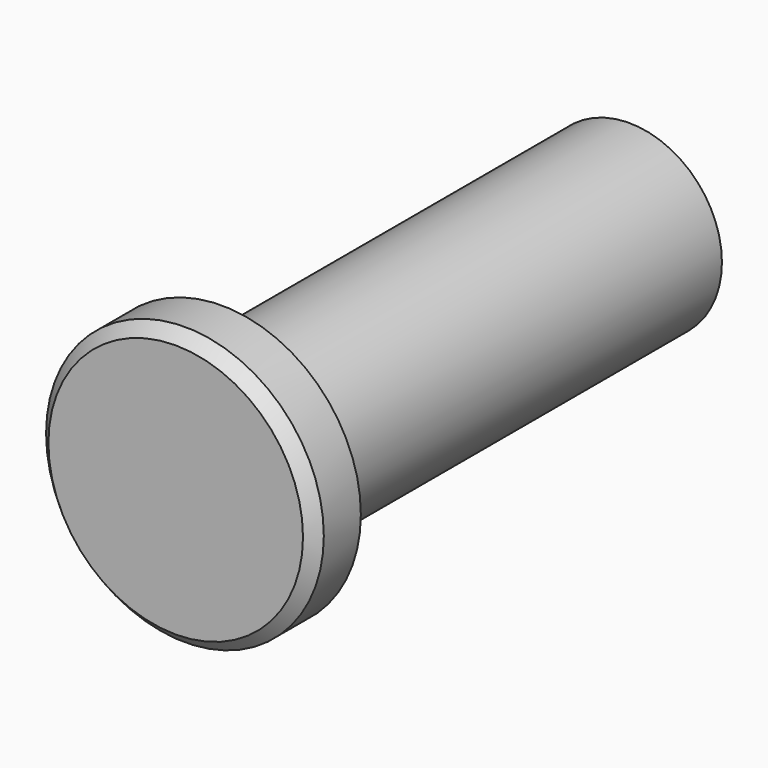
from build123d import *

# Parameters (mm, degrees)
F0_R     = 40
F1_DEPTH = 110
F2_R     = 60
F3_DEPTH = 25
F4_SIZE  = 5
F5_R     = 10.5
F6_DEPTH = 70


with BuildPart() as f1:
    # F0 (on Front) → F1 (new body, symmetric)
    with BuildSketch(Plane.XZ):
        Circle(F0_R)
    extrude(amount=F1_DEPTH, both=True)

    # F2 (on face) → F3 (join)
    with BuildSketch(Plane.XZ.offset(110)):
        Circle(F2_R)
    extrude(amount=F3_DEPTH)

    # F4
    f4_edges = [f1.edges().sort_by_distance(p)[0] for p in [
        (-60, -135, 0),
    ]]
    chamfer(f4_edges, length=F4_SIZE)

    # F5 (on face) → F6 (cut)
    with BuildSketch(Plane(origin=(0, 110, 0), x_dir=(-1, 0, 0), z_dir=(0, 1, 0))):
        Circle(F5_R)
    extrude(amount=-F6_DEPTH, mode=Mode.SUBTRACT)


solid = f1.part
